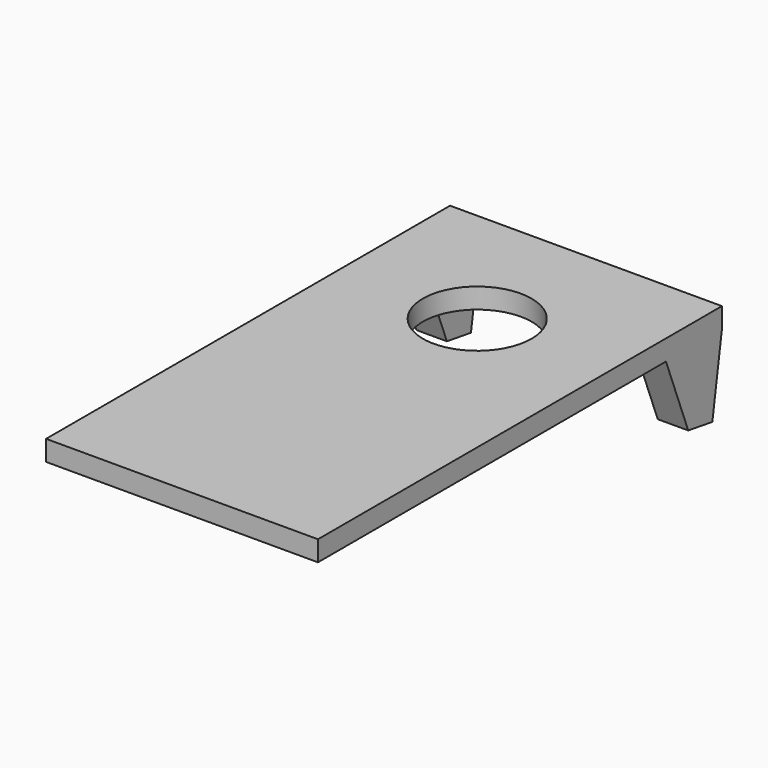
from build123d import *

# Parameters (mm, degrees)
F0_W     = 84.8995
F0_H     = 157.6705
F0_R     = 16.9799
F1_DEPTH = 6.35
F3_DEPTH = 9.525
F5_DEPTH = 9.525


with BuildPart() as f1:
    # F0 (on Top) → F1 (new body)
    with BuildSketch(Plane.XY):
        with Locations((0, -36.3855)):
            Rectangle(F0_W, F0_H)
        Circle(F0_R, mode=Mode.SUBTRACT)
    extrude(amount=-F1_DEPTH)

    # F2 (on face) → F3 (join)
    with BuildSketch(Plane(origin=(-42.44975, 0, 0), x_dir=(0, -1, 0), z_dir=(-1, 0, 0))):
        Polygon((-20.600559, -6.35), (-42.44975, -6.35), (-38.717904, -30.318216), (-29.306301, -28.852831), align=None)
    extrude(amount=-F3_DEPTH)

    # F4 (on face) → F5 (join)
    with BuildSketch(Plane.YZ.offset(42.44975)):
        Polygon((38.717904, -30.318216), (42.44975, -6.35), (20.600559, -6.35), (29.306301, -28.852831), align=None)
    extrude(amount=-F5_DEPTH)


solid = f1.part
